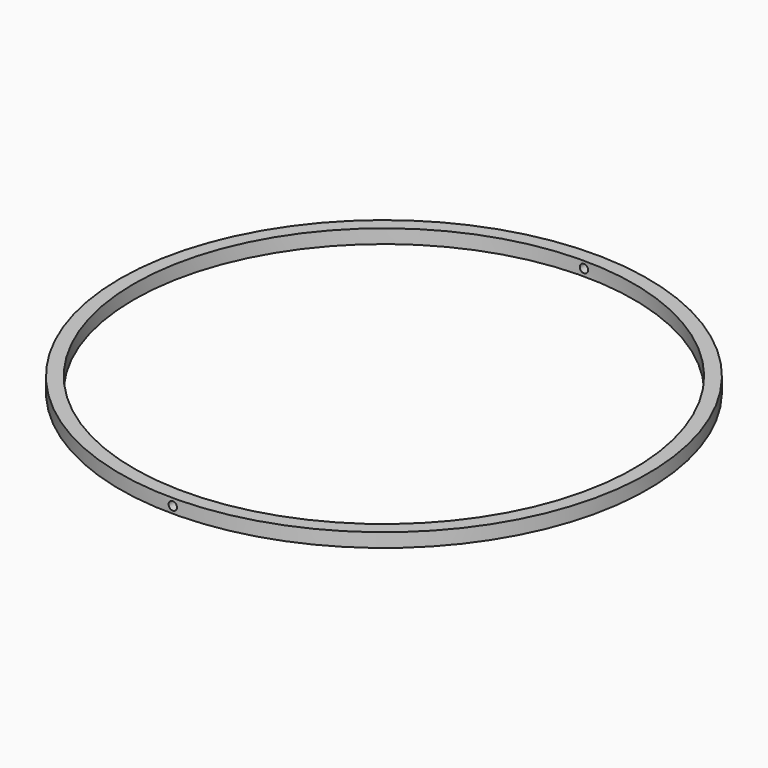
from build123d import *

# Parameters (mm, degrees)
F0_W     = 5
F0_H     = 5
F2_D     = 3
F2_DEPTH = 95.001
F3_D     = 3


with BuildPart() as f1:
    # F0 (on Front) → F1 (revolve)
    with BuildSketch(Plane.XZ):
        with Locations((-92.5, 2.5)):
            Rectangle(F0_W, F0_H)
    revolve(axis=Axis((0, 0, 1.25), (0, 0, 1)))

    # F2 (through all, one way)
    with BuildSketch(Plane.XZ):
        with Locations((0, 2.5)):
            Circle(F2_D / 2)
    extrude(amount=-F2_DEPTH, mode=Mode.SUBTRACT)

    # F3 (through all)
    with Locations(Plane(origin=(0, 0, 0), x_dir=(1, 0, 0), z_dir=(0, 1, 0))):
        with Locations((0, -2.5)):
            Hole(F3_D / 2)


solid = f1.part
